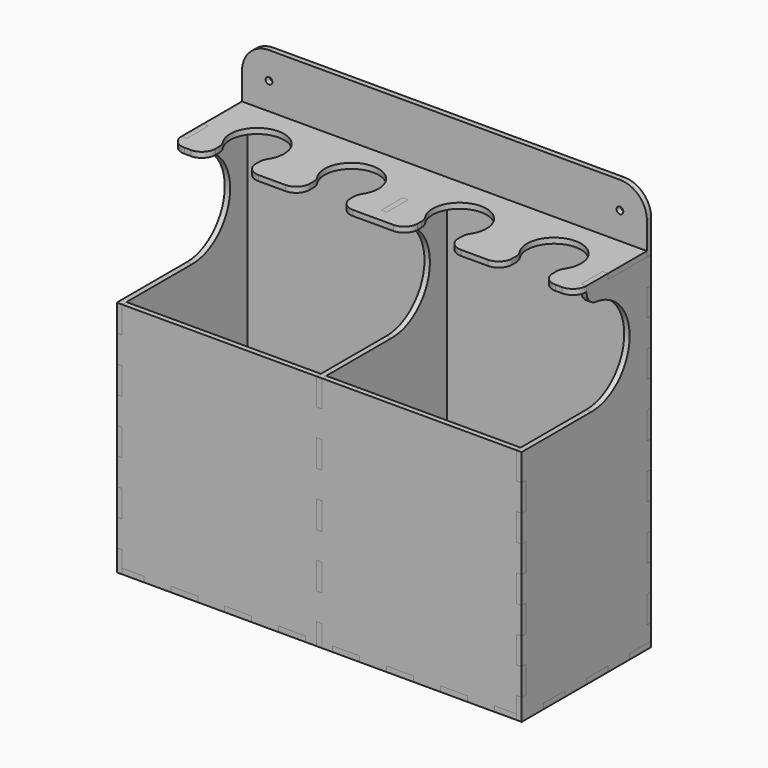
from build123d import *

# Parameters (mm, degrees)
F0_W      = 4
F0_H      = 20
F0_W_2    = 20
F0_H_2    = 4
F0_R      = 2.5
F1_DEPTH  = 4
F2_W      = 4
F2_H      = 20
F3_DEPTH  = 4
F6_DEPTH  = 4
F12_DEPTH = 4
F15_DEPTH = 4


with BuildPart() as f1:
    # F0 (on Front) → F1 (new body)
    with BuildSketch(Plane.XZ):
        with BuildLine():
            Line((130, 150), (-130, 150))
            ThreePointArc((-130, 150), (-144.142136, 144.142136), (-150, 130))
            Line((-150, 130), (-150, 106))
            Line((-150, 106), (-146, 106))
            Line((-146, 106), (-146, 86))
            Line((-146, 86), (-150, 86))
            Line((-150, 86), (-150, 66))
            Line((-150, 66), (-146, 66))
            Line((-146, 66), (-146, 46))
            Line((-146, 46), (-150, 46))
            Line((-150, 46), (-150, 26))
            Line((-150, 26), (-146, 26))
            Line((-146, 26), (-146, 6))
            Line((-146, 6), (-150, 6))
            Line((-150, 6), (-150, -14))
            Line((-150, -14), (-146, -14))
            Line((-146, -14), (-146, -34))
            Line((-146, -34), (-150, -34))
            Line((-150, -34), (-150, -54))
            Line((-150, -54), (-146, -54))
            Line((-146, -54), (-146, -74))
            Line((-146, -74), (-150, -74))
            Line((-150, -74), (-150, -94))
            Line((-150, -94), (-146, -94))
            Line((-146, -94), (-146, -114))
            Line((-146, -114), (-150, -114))
            Line((-150, -114), (-150, -134))
            Line((-150, -134), (-146, -134))
            Line((-146, -134), (-146, -146))
            Line((-146, -146), (-130, -146))
            Line((-130, -146), (-130, -150))
            Line((-130, -150), (-110, -150))
            Line((-110, -150), (-110, -146))
            Line((-110, -146), (-90, -146))
            Line((-90, -146), (-90, -150))
            Line((-90, -150), (-70, -150))
            Line((-70, -150), (-70, -146))
            Line((-70, -146), (-50, -146))
            Line((-50, -146), (-50, -150))
            Line((-50, -150), (-30, -150))
            Line((-30, -150), (-30, -146))
            Line((-30, -146), (-10, -146))
            Line((-10, -146), (-10, -150))
            Line((-10, -150), (10, -150))
            Line((10, -150), (10, -146))
            Line((10, -146), (30, -146))
            Line((30, -146), (30, -150))
            Line((30, -150), (50, -150))
            Line((50, -150), (50, -146))
            Line((50, -146), (70, -146))
            Line((70, -146), (70, -150))
            Line((70, -150), (90, -150))
            Line((90, -150), (90, -146))
            Line((90, -146), (110, -146))
            Line((110, -146), (110, -150))
            Line((110, -150), (130, -150))
            Line((130, -150), (130, -146))
            Line((130, -146), (146, -146))
            Line((146, -146), (146, -134))
            Line((146, -134), (150, -134))
            Line((150, -134), (150, -114))
            Line((150, -114), (146, -114))
            Line((146, -114), (146, -94))
            Line((146, -94), (150, -94))
            Line((150, -94), (150, -74))
            Line((150, -74), (146, -74))
            Line((146, -74), (146, -54))
            Line((146, -54), (150, -54))
            Line((150, -54), (150, -34))
            Line((150, -34), (146, -34))
            Line((146, -34), (146, -14))
            Line((146, -14), (150, -14))
            Line((150, -14), (150, 6))
            Line((150, 6), (146, 6))
            Line((146, 6), (146, 26))
            Line((146, 26), (150, 26))
            Line((150, 26), (150, 46))
            Line((150, 46), (146, 46))
            Line((146, 46), (146, 66))
            Line((146, 66), (146, 86))
            Line((146, 86), (146, 106))
            Line((146, 106), (150, 106))
            Line((150, 106), (150, 130))
            ThreePointArc((150, 130), (144.142136, 144.142136), (130, 150))
        make_face()
        with Locations((0, -104)):
            Rectangle(F0_W, F0_H, mode=Mode.SUBTRACT)
        with Locations((0, -64)):
            Rectangle(F0_W, F0_H, mode=Mode.SUBTRACT)
        with Locations((0, -24)):
            Rectangle(F0_W, F0_H, mode=Mode.SUBTRACT)
        with Locations((-120, 108)):
            Rectangle(F0_W_2, F0_H_2, mode=Mode.SUBTRACT)
        with Locations((-80, 108)):
            Rectangle(F0_W_2, F0_H_2, mode=Mode.SUBTRACT)
        with Locations((-130, 130)):
            Circle(F0_R, mode=Mode.SUBTRACT)
        with Locations((-40, 108)):
            Rectangle(F0_W_2, F0_H_2, mode=Mode.SUBTRACT)
        with Locations((0, 16)):
            Rectangle(F0_W, F0_H, mode=Mode.SUBTRACT)
        with Locations((0, 56)):
            Rectangle(F0_W, F0_H, mode=Mode.SUBTRACT)
        Polygon((-10, 106), (-10, 110), (10, 110), (10, 106), (2, 106), (2, 86), (-2, 86), (-2, 106), align=None, mode=Mode.SUBTRACT)
        with Locations((40, 108)):
            Rectangle(F0_W_2, F0_H_2, mode=Mode.SUBTRACT)
        with Locations((80, 108)):
            Rectangle(F0_W_2, F0_H_2, mode=Mode.SUBTRACT)
        with Locations((120, 108)):
            Rectangle(F0_W_2, F0_H_2, mode=Mode.SUBTRACT)
        with Locations((130, 130)):
            Circle(F0_R, mode=Mode.SUBTRACT)
        with Locations((148, 76)):
            Rectangle(F0_W, F0_H)
    extrude(amount=F1_DEPTH)


with BuildPart() as f3:
    # F2 (on face) → F3 (new body)
    with BuildSketch(Plane.XY.offset(106)):
        with BuildLine():
            Line((150, 0), (-150, 0))
            Line((-150, 0), (-150, -40))
            Line((-150, -40), (-146, -40))
            Line((-146, -40), (-146, -60))
            Line((-146, -60), (-150, -60))
            ThreePointArc((-150, -60), (-147.071068, -67.071068), (-140, -70))
            Line((-140, -70), (-135, -70))
            ThreePointArc((-135, -70), (-127.928932, -67.071068), (-125, -60))
            Line((-125, -60), (-125, -56.583124))
            ThreePointArc((-125, -56.583124), (-125.425729, -53.696373), (-126.666667, -51.055416))
            ThreePointArc((-126.666667, -51.055416), (-110, -20), (-93.333333, -51.055416))
            ThreePointArc((-93.333333, -51.055416), (-94.574271, -53.696373), (-95, -56.583124))
            Line((-95, -56.583124), (-95, -60))
            ThreePointArc((-95, -60), (-92.071068, -67.071068), (-85, -70))
            Line((-85, -70), (-65, -70))
            ThreePointArc((-65, -70), (-57.928932, -67.071068), (-55, -60))
            Line((-55, -60), (-55, -56.583124))
            ThreePointArc((-55, -56.583124), (-55.425729, -53.696373), (-56.666667, -51.055416))
            ThreePointArc((-56.666667, -51.055416), (-40, -20), (-23.333333, -51.055416))
            ThreePointArc((-23.333333, -51.055416), (-24.574271, -53.696373), (-25, -56.583124))
            Line((-25, -56.583124), (-25, -60))
            ThreePointArc((-25, -60), (-22.071068, -67.071068), (-15, -70))
            Line((-15, -70), (15, -70))
            ThreePointArc((15, -70), (22.071068, -67.071068), (25, -60))
            Line((25, -60), (25, -56.583124))
            ThreePointArc((25, -56.583124), (24.574271, -53.696373), (23.333333, -51.055416))
            ThreePointArc((23.333333, -51.055416), (40, -20), (56.666667, -51.055416))
            ThreePointArc((56.666667, -51.055416), (55.425729, -53.696373), (55, -56.583124))
            Line((55, -56.583124), (55, -60))
            ThreePointArc((55, -60), (57.928932, -67.071068), (65, -70))
            Line((65, -70), (85, -70))
            ThreePointArc((85, -70), (92.071068, -67.071068), (95, -60))
            Line((95, -60), (95, -56.583124))
            ThreePointArc((95, -56.583124), (94.574271, -53.696373), (93.333333, -51.055416))
            ThreePointArc((93.333333, -51.055416), (110, -20), (126.666667, -51.055416))
            ThreePointArc((126.666667, -51.055416), (125.425729, -53.696373), (125, -56.583124))
            Line((125, -56.583124), (125, -60))
            ThreePointArc((125, -60), (127.928932, -67.071068), (135, -70))
            Line((135, -70), (140, -70))
            ThreePointArc((140, -70), (147.071068, -67.071068), (150, -60))
            Line((150, -60), (146, -60))
            Line((146, -60), (146, -40))
            Line((146, -40), (150, -40))
            Line((150, -40), (150, 0))
        make_face()
        with Locations((0, -50)):
            Rectangle(F2_W, F2_H, mode=Mode.SUBTRACT)
    extrude(amount=F3_DEPTH)

    # F4: cut F1
    add(f1.part, mode=Mode.SUBTRACT)


with BuildPart() as f6:
    # F5 (on face) → F6 (new body)
    with BuildSketch(Plane(origin=(-150, 0, 0), x_dir=(0, -1, 0), z_dir=(-1, 0, 0))):
        with BuildLine():
            Line((60, 106), (60, 110))
            Line((60, 110), (40, 110))
            Line((40, 110), (40, 106))
            Line((40, 106), (4, 106))
            Line((4, 106), (4, 110))
            Line((4, 110), (0, 110))
            Line((0, 110), (0, -146))
            Line((0, -146), (20, -146))
            Line((20, -146), (20, -150))
            Line((20, -150), (40, -150))
            Line((40, -150), (40, -146))
            Line((40, -146), (60, -146))
            Line((60, -146), (60, -150))
            Line((60, -150), (80, -150))
            Line((80, -150), (80, -146))
            Line((80, -146), (100, -146))
            Line((100, -146), (100, -150))
            Line((100, -150), (120, -150))
            Line((120, -150), (120, -134))
            Line((120, -134), (116, -134))
            Line((116, -134), (116, -114))
            Line((116, -114), (120, -114))
            Line((120, -114), (120, -94))
            Line((120, -94), (116, -94))
            Line((116, -94), (116, -74))
            Line((116, -74), (120, -74))
            Line((120, -74), (120, -54))
            Line((120, -54), (116, -54))
            Line((116, -54), (116, -34))
            Line((116, -34), (120, -34))
            Line((120, -34), (120, -14))
            Line((120, -14), (116, -14))
            Line((116, -14), (116, 6))
            Line((116, 6), (120, 6))
            Line((120, 6), (120, 26))
            Line((120, 26), (55.147186, 26))
            ThreePointArc((55.147186, 26), (20.057339, 59.140364), (51.14009, 96.065203))
            ThreePointArc((51.14009, 96.065203), (57.463273, 99.344209), (60, 106))
        make_face()
    extrude(amount=-F6_DEPTH)

    # F8: cut F1, F3
    add(f1.part, mode=Mode.SUBTRACT)
    add(f3.part, mode=Mode.SUBTRACT)


with BuildPart() as f7_1:
    # F7: copy of F6
    add(f6.part.moved(Location((148, 0, 0))))

    # F10: cut F1, F3
    add(f1.part, mode=Mode.SUBTRACT)
    add(f3.part, mode=Mode.SUBTRACT)


with BuildPart() as f9_1:
    # F9: copy of F6
    add(f6.part.moved(Location((296, 0, 0))))


with BuildPart() as f12:
    # F11 (on face) → F12 (new body)
    with BuildSketch(Plane(origin=(0, 0, -150), x_dir=(1, 0, 0), z_dir=(0, 0, -1))):
        Polygon((-150, 120), (-150, 0), (150, 0), (150, 120), (130, 120), (130, 116), (110, 116), (110, 120), (90, 120), (90, 116), (70, 116), (70, 120), (50, 120), (50, 116), (30, 116), (30, 120), (10, 120), (10, 116), (-10, 116), (-10, 120), (-30, 120), (-30, 116), (-50, 116), (-50, 120), (-70, 120), (-70, 116), (-90, 116), (-90, 120), (-110, 120), (-110, 116), (-130, 116), (-130, 120), align=None)
    extrude(amount=-F12_DEPTH)

    # F13: cut F1, F6, F7_1, F9_1
    add(f1.part, mode=Mode.SUBTRACT)
    add(f6.part, mode=Mode.SUBTRACT)
    add(f7_1.part, mode=Mode.SUBTRACT)
    add(f9_1.part, mode=Mode.SUBTRACT)


with BuildPart() as f15:
    # F14 (on face) → F15 (new body)
    with BuildSketch(Plane.XZ.offset(120)):
        Polygon((-150, 6), (-150, -150), (150, -150), (150, 26), (-146, 26), (-146, 6), align=None)
    extrude(amount=-F15_DEPTH)

    # F16: cut F12, F9_1, F7_1, F6
    add(f12.part, mode=Mode.SUBTRACT)
    add(f9_1.part, mode=Mode.SUBTRACT)
    add(f7_1.part, mode=Mode.SUBTRACT)
    add(f6.part, mode=Mode.SUBTRACT)


solid = Compound([f1.part, f3.part, f6.part, f7_1.part, f9_1.part, f12.part, f15.part])
